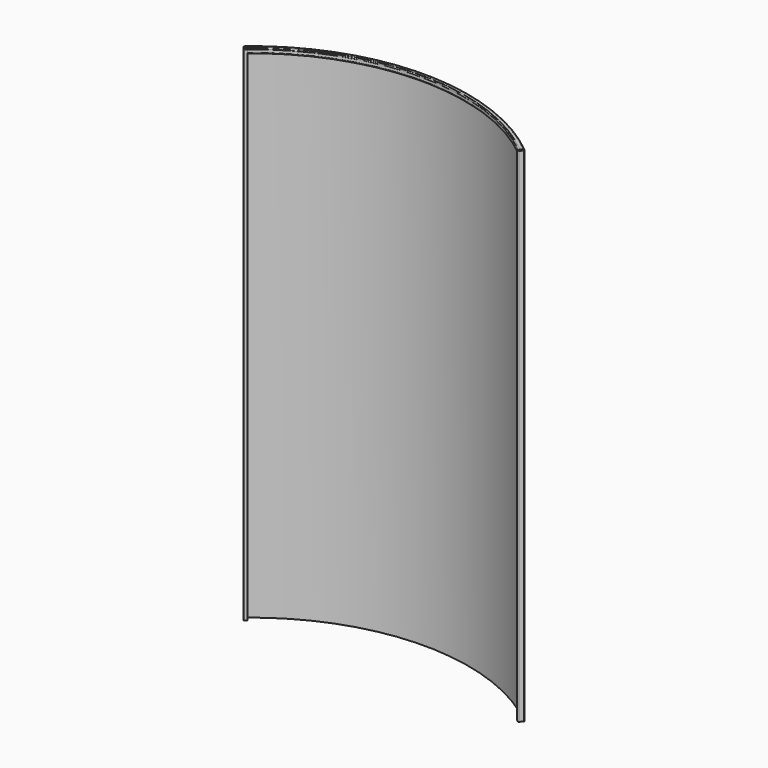
from build123d import *

# Parameters (mm, degrees)
F1_DEPTH = 1150


with BuildPart() as f1:
    # F0 (on Top) → F1 (new body, symmetric)
    with BuildSketch(Plane.XY):
        with BuildLine():
            ThreePointArc((-630.0243001179, 749.666930217), (-627.6481896666, 748.4300054076), (-625.0933879331, 749.2355313))
            Line((-625.0933879331, 749.2355313), (-617.2414323911, 755.8241042993))
            Line((-617.2414323911, 755.8241042993), (-618.2056138056, 756.9731709639))
            Line((-618.2056138056, 756.9731709639), (-626.0575693476, 750.3845979647))
            ThreePointArc((-626.0575693476, 750.3845979647), (-627.5174560525, 749.9242974547), (-628.8752334532, 750.6311116315))
            Line((-628.8752334532, 750.6311116315), (-640.4429731799, 764.417007009))
            ThreePointArc((-640.4429731799, 764.417007009), (-640.9030314565, 765.8796406407), (-640.1922297622, 767.2382103702))
            ThreePointArc((-640.1922297622, 767.2382103702), (0, 999.25), (640.1922297622, 767.2382103702))
            ThreePointArc((640.1922297622, 767.2382103702), (640.9030314565, 765.8796406407), (640.4429731799, 764.417007009))
            Line((640.4429731799, 764.417007009), (628.8752334532, 750.6311116315))
            ThreePointArc((628.8752334532, 750.6311116315), (627.5174560525, 749.9242974547), (626.0575693476, 750.3845979647))
            Line((626.0575693476, 750.3845979647), (618.2056138056, 756.9731709639))
            Line((618.2056138056, 756.9731709639), (617.2414323911, 755.8241042993))
            Line((617.2414323911, 755.8241042993), (625.0933879331, 749.2355313))
            ThreePointArc((625.0933879331, 749.2355313), (627.6481896666, 748.4300054076), (630.0243001179, 749.666930217))
            Line((630.0243001179, 749.666930217), (641.5920398445, 763.4528255944))
            ThreePointArc((641.5920398445, 763.4528255944), (642.3971418287, 766.0124344499), (641.1532388637, 768.3899314766))
            ThreePointArc((641.1532388637, 768.3899314766), (0, 1000.75), (-641.1532388637, 768.3899314766))
            ThreePointArc((-641.1532388637, 768.3899314766), (-642.3971418287, 766.0124344499), (-641.5920398445, 763.4528255944))
            Line((-641.5920398445, 763.4528255944), (-630.0243001179, 749.666930217))
        make_face()
    extrude(amount=F1_DEPTH, both=True)

    # F4: sweep along a path in F3
    with BuildLine(Plane.XY.offset(1150)) as f4_path:
        ThreePointArc((640.1922297622, 767.2382103702), (0, 999.25), (-640.1922297622, 767.2382103702))
    # F2 (on Right) → F4 (sweep)
    with BuildSketch(Plane.YZ):
        with BuildLine():
            Line((995.25, 1154), (983.25, 1154))
            ThreePointArc((983.25, 1154), (980.4215728753, 1152.8284271247), (979.25, 1150))
            Line((979.25, 1150), (979.25, 1136))
            ThreePointArc((979.25, 1136), (980.4215728753, 1133.1715728753), (983.25, 1132))
            Line((983.25, 1132), (995.25, 1132))
            ThreePointArc((995.25, 1132), (998.0784271247, 1133.1715728753), (999.25, 1136))
            Line((999.25, 1136), (999.25, 1150))
            ThreePointArc((999.25, 1150), (998.0784271247, 1152.8284271247), (995.25, 1154))
        make_face()
        with BuildLine():
            ThreePointArc((981.25, 1150), (981.8357864376, 1151.4142135624), (983.25, 1152))
            Line((983.25, 1152), (995.25, 1152))
            ThreePointArc((995.25, 1152), (996.6642135624, 1151.4142135624), (997.25, 1150))
            Line((997.25, 1150), (997.25, 1136))
            ThreePointArc((997.25, 1136), (996.6642135624, 1134.5857864376), (995.25, 1134))
            Line((995.25, 1134), (983.25, 1134))
            ThreePointArc((983.25, 1134), (981.8357864376, 1134.5857864376), (981.25, 1136))
            Line((981.25, 1136), (981.25, 1150))
        make_face(mode=Mode.SUBTRACT)
    sweep(path=f4_path.line)


solid = f1.part
